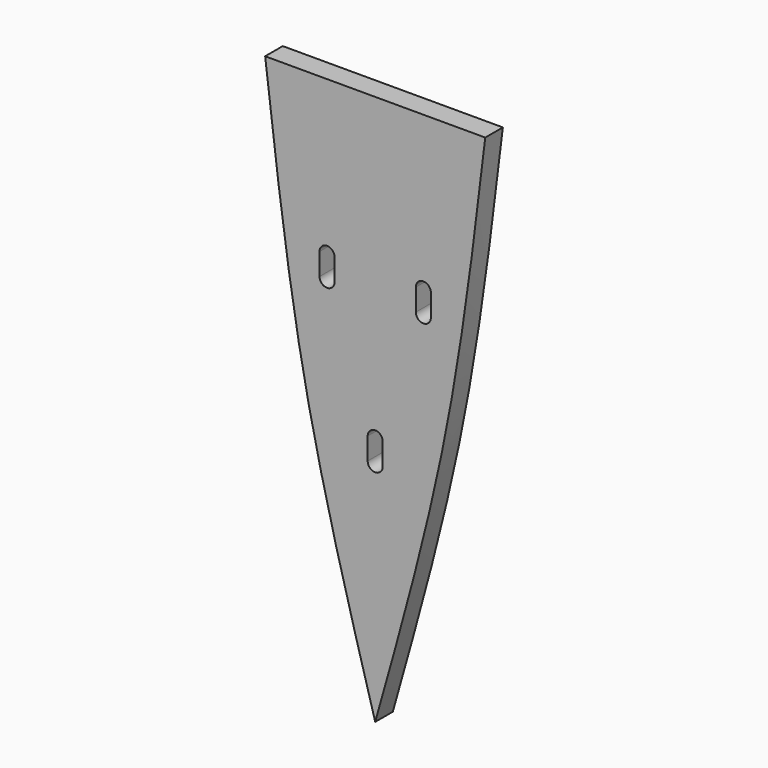
from build123d import *

# Parameters (mm, degrees)
F1_DEPTH = 3
F3_DEPTH = 3


with BuildPart() as f1:
    # F0 (on Front) → F1 (new body)
    with BuildSketch(Plane.XZ):
        with BuildLine():
            Line((-6.562501, 37.488816), (-21.562501, 37.488816))
            add(Edge.make_bspline(
                [(-21.562501, 37.488816), (-20.043081, 24.7927), (-17.004243, -0.599532), (-10.043081, -25.2073), (-6.562501, -37.511184)],
                knots=[0, 0, 0, 0, 38.294908, 76.589817, 76.589817, 76.589817, 76.589817], degree=3))
            add(Edge.make_bspline(
                [(8.437499, 37.488816), (6.91808, 24.7927), (3.879241, -0.599532), (-3.08192, -25.2073), (-6.562501, -37.511184)],
                knots=[0, 0, 0, 0, 38.294908, 76.589817, 76.589817, 76.589817, 76.589817], degree=3))
            Line((8.437499, 37.488816), (-6.562501, 37.488816))
        make_face()
    extrude(amount=F1_DEPTH)

    # F2 (on face) → F3 (cut, through all)
    with BuildSketch(Plane(origin=(0, 0, 0), x_dir=(-1, 0, 0), z_dir=(0, 1, 0))):
        with BuildLine():
            Line((1.025, 13.463816), (1.025, 16.463816))
            ThreePointArc((1.025, 16.463816), (0, 17.488816), (-1.025, 16.463816))
            Line((-1.025, 16.463816), (-1.025, 13.463816))
            ThreePointArc((-1.025, 13.463816), (0, 12.438816), (1.025, 13.463816))
        make_face()
        with BuildLine():
            ThreePointArc((14.150001, 16.463816), (13.125001, 17.488816), (12.100001, 16.463816))
            Line((12.100001, 16.463816), (12.100001, 13.463816))
            ThreePointArc((12.100001, 13.463816), (13.125001, 12.438816), (14.150001, 13.463816))
            Line((14.150001, 13.463816), (14.150001, 16.463816))
        make_face()
        with BuildLine():
            ThreePointArc((7.587501, -3.536184), (6.562501, -2.511184), (5.537501, -3.536184))
            Line((5.537501, -3.536184), (5.537501, -6.536184))
            ThreePointArc((5.537501, -6.536184), (6.562501, -7.561184), (7.587501, -6.536184))
            Line((7.587501, -6.536184), (7.587501, -3.536184))
        make_face()
    extrude(amount=-F3_DEPTH, mode=Mode.SUBTRACT)


solid = f1.part
